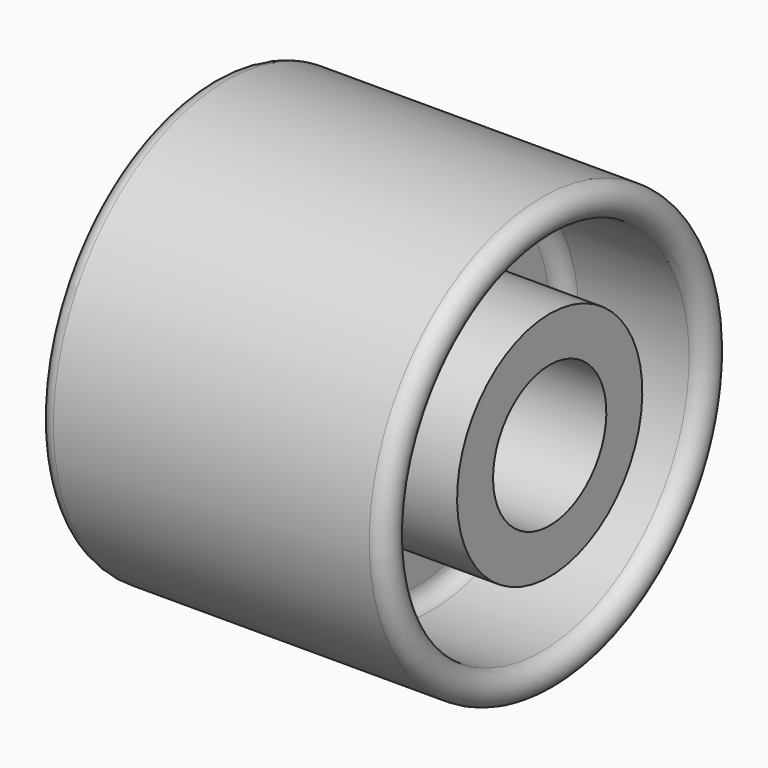
from build123d import *


with BuildPart() as f1:
    # F0 (on Front) → F1 (revolve)
    with BuildSketch(Plane.XZ):
        with BuildLine():
            Line((-31.5, 0), (31.5, 0))
            Line((31.5, 0), (31.5, 8.55))
            Line((31.5, 8.55), (9, 8.55))
            ThreePointArc((9, 8.55), (6.87868, 9.42868), (6, 11.55))
            Line((6, 11.55), (6, 18.55))
            ThreePointArc((6, 18.55), (6.87868, 20.67132), (9, 21.55))
            Line((9, 21.55), (30, 21.55))
            ThreePointArc((30, 21.55), (33, 24.55), (30, 27.55))
            Line((30, 27.55), (-30, 27.55))
            ThreePointArc((-30, 27.55), (-33, 24.55), (-30, 21.55))
            Line((-30, 21.55), (-9, 21.55))
            ThreePointArc((-9, 21.55), (-6.87868, 20.67132), (-6, 18.55))
            Line((-6, 18.55), (-6, 11.55))
            ThreePointArc((-6, 11.55), (-6.87868, 9.42868), (-9, 8.55))
            Line((-9, 8.55), (-31.5, 8.55))
            Line((-31.5, 8.55), (-31.5, 0))
        make_face()
    revolve(axis=Axis((20.209787, 0, -13.45), (1, 0, 0)))


solid = f1.part
